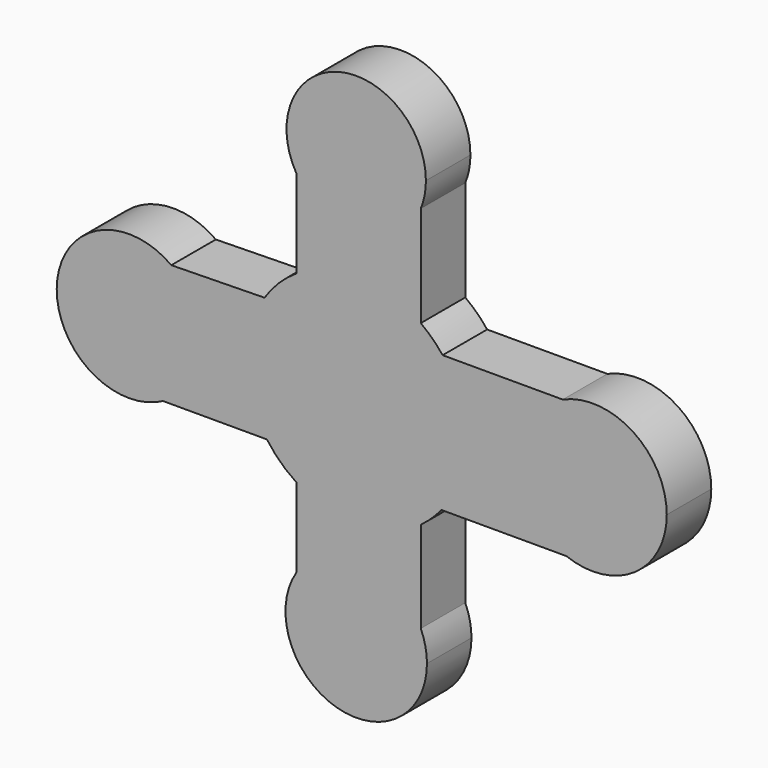
from build123d import *

# Parameters (mm, degrees)
F1_DEPTH = 12.7


with BuildPart() as f1:
    # F0 (on Front) → F1 (new body)
    with BuildSketch(Plane.XZ):
        with BuildLine():
            ThreePointArc((16.146005, -47.707446), (15.789963, -44.335421), (14.737539, -41.112111))
            ThreePointArc((14.737539, -41.112111), (1.15741, -31.602978), (-13.642951, -39.072437))
            ThreePointArc((-13.642951, -39.072437), (-4.495238, -63.215067), (16.146005, -47.707446))
        make_face()
        with BuildLine():
            ThreePointArc((-13.642951, 41.068468), (1.225952, 33.386763), (14.737539, 43.262485))
            ThreePointArc((14.737539, 43.262485), (15.610778, 46.197242), (15.905498, 49.244944))
            ThreePointArc((15.905498, 49.244944), (-4.241871, 64.574373), (-13.642951, 41.068468))
        make_face()
        with BuildLine():
            ThreePointArc((-20.380278, -14.546899), (-25.034695, -0.48173), (-20.924822, 13.752086))
            Line((-20.924822, 13.752086), (-42.20487, 13.367128))
            ThreePointArc((-42.20487, 13.367128), (-37.179711, 7.505984), (-35.37266, 0))
            ThreePointArc((-35.37266, 0), (-37.720091, -8.480516), (-44.094146, -14.546899))
            Line((-44.094146, -14.546899), (-20.380278, -14.546899))
        make_face()
        with BuildLine():
            Line((14.737539, -41.112111), (14.737539, -20.24285))
            ThreePointArc((14.737539, -20.24285), (0.664374, -25.030514), (-13.642951, -20.99614))
            Line((-13.642951, -20.99614), (-13.642951, -39.072437))
            ThreePointArc((-13.642951, -39.072437), (1.15741, -31.602978), (14.737539, -41.112111))
        make_face()
        with BuildLine():
            ThreePointArc((70.881501, 0), (63.199774, 14.153128), (47.14658, 15.423933))
            ThreePointArc((47.14658, 15.423933), (37.129282, -0.442864), (47.965114, -15.762337))
            ThreePointArc((47.965114, -15.762337), (63.567951, -13.906942), (70.881501, 0))
        make_face()
        with BuildLine():
            ThreePointArc((-13.642951, 20.99614), (0.664374, 25.030514), (14.737539, 20.24285))
            Line((14.737539, 20.24285), (14.737539, 43.262485))
            ThreePointArc((14.737539, 43.262485), (1.225952, 33.386763), (-13.642951, 41.068468))
            Line((-13.642951, 41.068468), (-13.642951, 20.99614))
        make_face()
        with BuildLine():
            ThreePointArc((-35.37266, 0), (-37.179711, 7.505984), (-42.20487, 13.367128))
            ThreePointArc((-42.20487, 13.367128), (-68.31983, 1.11369), (-44.094146, -14.546899))
            ThreePointArc((-44.094146, -14.546899), (-37.720091, -8.480516), (-35.37266, 0))
        make_face()
        with BuildLine():
            ThreePointArc((19.455507, -15.762337), (23.602128, -8.361076), (25.039329, 0))
            ThreePointArc((25.039329, 0), (23.67346, 8.156918), (19.724866, 15.423933))
            ThreePointArc((19.724866, 15.423933), (17.398845, 18.006893), (14.737539, 20.24285))
            ThreePointArc((14.737539, 20.24285), (0.664374, 25.030514), (-13.642951, 20.99614))
            ThreePointArc((-13.642951, 20.99614), (-17.659326, 17.751513), (-20.924822, 13.752086))
            ThreePointArc((-20.924822, 13.752086), (-25.034695, -0.48173), (-20.380278, -14.546899))
            ThreePointArc((-20.380278, -14.546899), (-17.314538, -18.087974), (-13.642951, -20.99614))
            ThreePointArc((-13.642951, -20.99614), (0.664374, -25.030514), (14.737539, -20.24285))
            ThreePointArc((14.737539, -20.24285), (17.242675, -18.156491), (19.455507, -15.762337))
        make_face()
        with BuildLine():
            ThreePointArc((19.724866, 15.423933), (23.67346, 8.156918), (25.039329, 0))
            ThreePointArc((25.039329, 0), (23.602128, -8.361076), (19.455507, -15.762337))
            Line((19.455507, -15.762337), (47.965114, -15.762337))
            ThreePointArc((47.965114, -15.762337), (37.129282, -0.442864), (47.14658, 15.423933))
            Line((47.14658, 15.423933), (19.724866, 15.423933))
        make_face()
    extrude(amount=F1_DEPTH)


solid = f1.part
